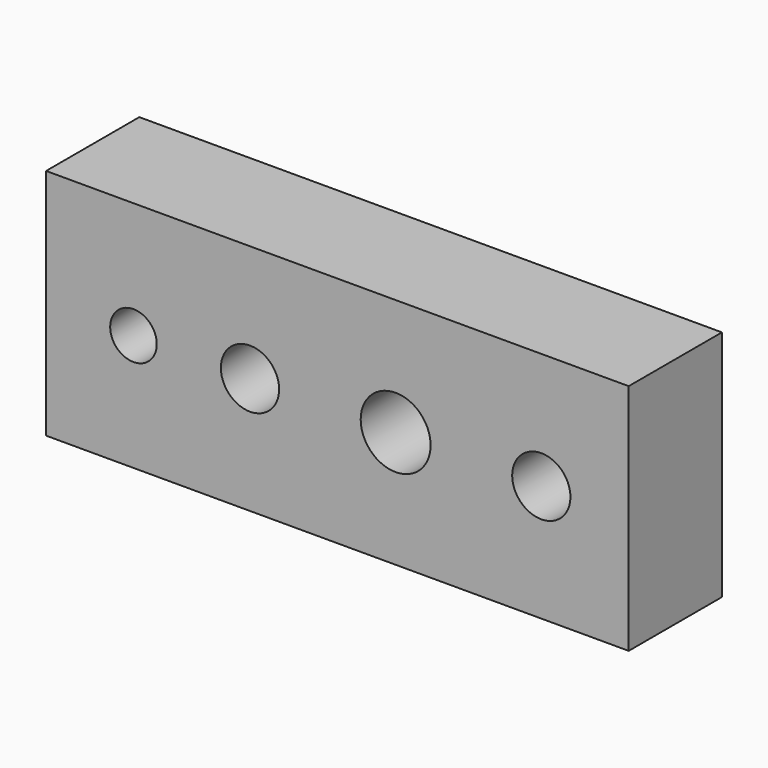
from build123d import *

# Parameters (mm, degrees)
F1_DEPTH       = 25.4
F2_D           = 12.7
F2_CBORE_D     = 19.05
F2_CBORE_DEPTH = 6.35
F3_D           = 15.24
F4_D           = 12.7
F4_CSINK_D     = 25.4
F4_CSINK_ANGLE = 82
F5_D           = 10.16
F5_CBORE_D     = 20.32
F5_CBORE_DEPTH = 6.35


with BuildPart() as f1:
    # F0 (on Front) → F1 (new body)
    with BuildSketch(Plane.XZ):
        Polygon((0, 25.4), (0, 0), (127, 0), (127, 50.8), (0, 50.8), align=None)
    extrude(amount=F1_DEPTH)

    # F2 (through all)
    with Locations(Plane(origin=(0, 0, 0), x_dir=(1, 0, 0), z_dir=(0, 1, 0))):
        with Locations((107.95, -25.4)):
            CounterBoreHole(F2_D / 2, F2_CBORE_D / 2, F2_CBORE_DEPTH)

    # F3 (through all)
    with Locations(Plane(origin=(0, 0, 0), x_dir=(1, 0, 0), z_dir=(0, 1, 0))):
        with Locations((76.2, -25.4)):
            Hole(F3_D / 2)

    # F4 (through all)
    with Locations(Plane(origin=(0, 0, 0), x_dir=(1, 0, 0), z_dir=(0, 1, 0))):
        with Locations((44.45, -25.4)):
            CounterSinkHole(F4_D / 2, F4_CSINK_D / 2, counter_sink_angle=F4_CSINK_ANGLE)

    # F5 (through all)
    with Locations(Plane(origin=(0, 0, 0), x_dir=(1, 0, 0), z_dir=(0, 1, 0))):
        with Locations((19.05, -25.4)):
            CounterBoreHole(F5_D / 2, F5_CBORE_D / 2, F5_CBORE_DEPTH)


solid = f1.part
